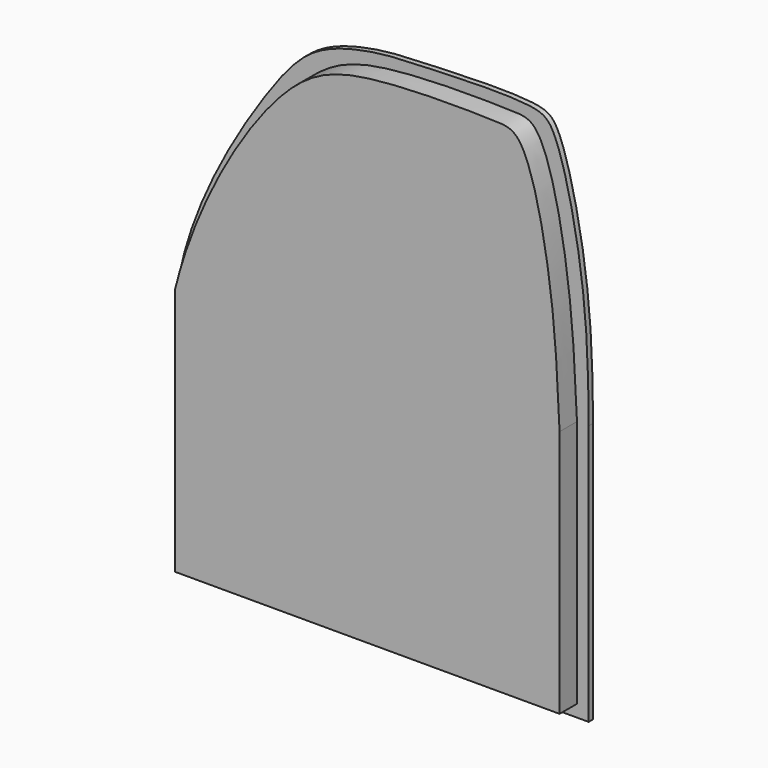
from build123d import *

# Parameters (mm, degrees)
F1_DEPTH = 1
F2_DEPTH = 5


with BuildPart() as f1:
    # F0 (on Front) → F1 (new body)
    with BuildSketch(Plane.XZ):
        with BuildLine():
            Line((-43.6766035855, -4.3176412582), (-43.6766035855, -52.260261029))
            Line((-43.6766035855, -52.260261029), (31.6210500896, -52.260261029))
            Line((31.6210500896, -52.260261029), (31.6210500896, -4.3176412582))
            add(Edge.make_bspline(
                [(-43.6766035855, -4.3176412582), (-41.0383021138, 9.0666906176), (-27.9398807539, 30.9156219348), (-18.7479844266, 41.3390835094), (-7.0085331076, 43.5985571671), (-2.215007715, 43.8020735184), (21.2993443911, 44.9657713637), (26.0800513958, 41.7197839808), (31.3102526714, 18.3624746495), (31.5930695379, 3.1075431018), (31.6210500896, -4.3176412582)],
                knots=[0, 0, 0, 0, 0.1942047864, 0.3092342936, 0.40822929, 0.4837495286, 0.6306580628, 0.7017097882, 0.8479049191, 1, 1, 1, 1], degree=3))
        make_face()
        with BuildLine():
            Line((29.4725894928, -50.028309226), (-41.2763357162, -50.028309226))
            Line((-41.2763357162, -50.028309226), (-41.2763357162, -4.3176412582))
            add(Edge.make_bspline(
                [(29.4725894928, -4.3176412582), (29.1241496967, 2.9787885737), (28.5454511929, 18.1687452905), (23.4164160844, 41.9172876242), (16.665337298, 42.2003372333), (-7.4096989865, 42.5160002908), (-22.9090094529, 36.1722681351), (-37.4855825891, 11.2133633357), (-41.2763357162, -4.3176412582)],
                knots=[0, 0, 0, 0, 0.1793175303, 0.3494515687, 0.4340680096, 0.6090858367, 0.7583926872, 1, 1, 1, 1], degree=3))
            Line((29.4725894928, -4.3176412582), (29.4725894928, -50.028309226))
        make_face(mode=Mode.SUBTRACT)
    extrude(amount=F1_DEPTH)

    # F0 (on Front) → F2 (join)
    with BuildSketch(Plane.XZ):
        with BuildLine():
            Line((-41.2763357162, -4.3176412582), (-41.2763357162, -50.028309226))
            Line((-41.2763357162, -50.028309226), (29.4725894928, -50.028309226))
            Line((29.4725894928, -50.028309226), (29.4725894928, -4.3176412582))
            add(Edge.make_bspline(
                [(29.4725894928, -4.3176412582), (29.1241496967, 2.9787885737), (28.5454511929, 18.1687452905), (23.4164160844, 41.9172876242), (16.665337298, 42.2003372333), (-7.4096989865, 42.5160002908), (-22.9090094529, 36.1722681351), (-37.4855825891, 11.2133633357), (-41.2763357162, -4.3176412582)],
                knots=[0, 0, 0, 0, 0.1793175303, 0.3494515687, 0.4340680096, 0.6090858367, 0.7583926872, 1, 1, 1, 1], degree=3))
        make_face()
    extrude(amount=F2_DEPTH)


solid = f1.part
